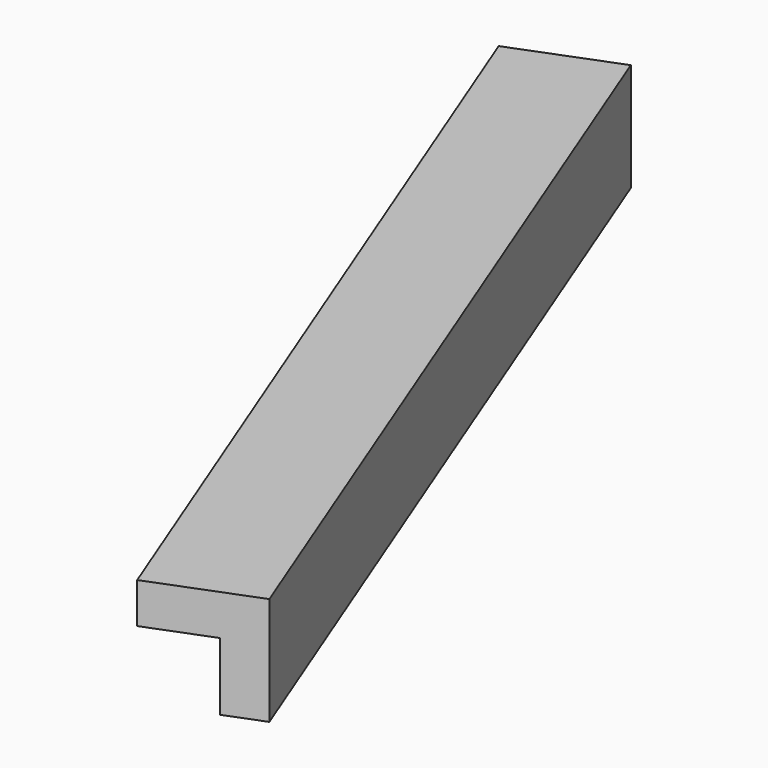
from build123d import *

# Parameters (mm, degrees)
BOX149_W               = 0.8
BOX149_H               = 7
BOX149_DEPTH           = 0.8
BOX150_W               = 0.8
BOX150_H               = 7
BOX150_DEPTH           = 0.8
CUT078_PLACEMENT_ANGLE = 21.3


with BuildPart() as cubo149:
    # Box149 → Box149 (new body)
    with BuildSketch(Plane.XY):
        with Locations((0.4, 3.5)):
            Rectangle(BOX149_W, BOX149_H)
    extrude(amount=BOX149_DEPTH)


with BuildPart() as obj1:
    # Box150 → Box150 (new body)
    with BuildSketch(Plane(origin=(0.3, 0, 0.3), x_dir=(1, 0, 0), z_dir=(0, 0, 1))):
        with Locations((0.4, 3.5)):
            Rectangle(BOX150_W, BOX150_H)
    extrude(amount=BOX150_DEPTH)

    # Cut078: cut Cubo149
    add(cubo149.part, mode=Mode.SUBTRACT)


with BuildPart() as obj1_1:
    # Cut078 placement: moved
    add(obj1.part.moved(Location((-85, 211.3, -1.45))).rotate(Axis((-85, 211.3, -1.45), (0, 0, 1)), CUT078_PLACEMENT_ANGLE))


solid = obj1_1.part
